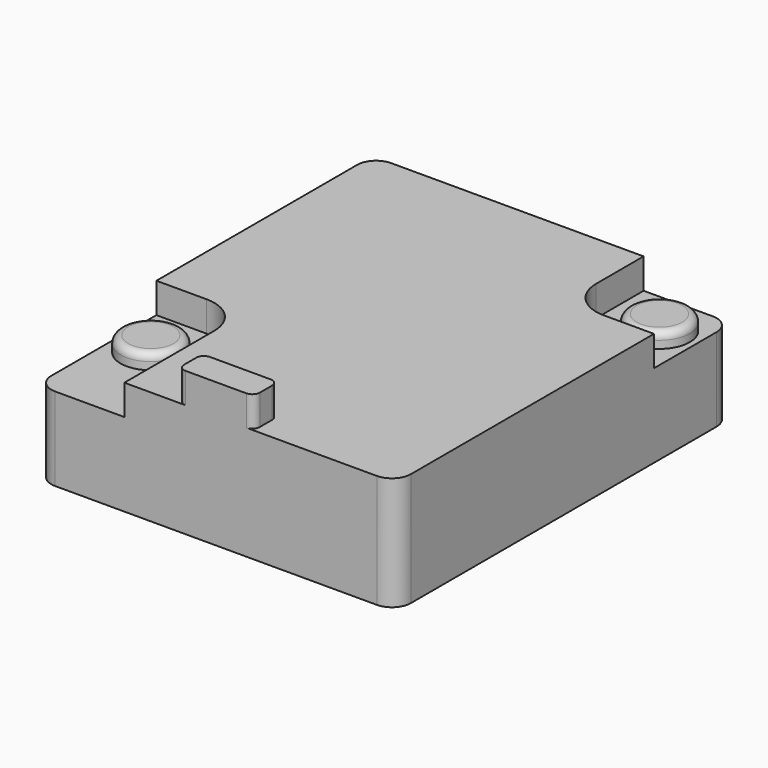
from build123d import *

# Parameters (mm, degrees)
SKETCH_W     = 9.5
SKETCH_H     = 11.1
PAD_DEPTH    = 3
POCKET_DEPTH = 0.8
SKETCH002_R  = 0.8
PAD001_DEPTH = 0.4
SKETCH003_R  = 0.8
PAD002_DEPTH = 0.4
FILLET_R     = 0.2
FILLET001_R  = 0.5
PAD003_DEPTH = 0.8


with BuildPart() as part:
    # Sketch → Pad (new body)
    with BuildSketch(Plane.XY):
        with Locations((0, -0.7)):
            Rectangle(SKETCH_W, SKETCH_H)
    extrude(amount=PAD_DEPTH)

    # Sketch001 (on Face6 of Pad) → Pocket (cut)
    with BuildSketch(Plane.XY.offset(3)):
        with BuildLine():
            Line((-3.42, -2.28), (-4.75, -2.28))
            Line((-4.75, -2.28), (-4.75, -6.25))
            Line((-4.75, -6.25), (-2.42, -6.25))
            Line((-2.42, -6.25), (-2.42, -3.28))
            ThreePointArc((-2.42, -3.28), (-2.712893, -2.572893), (-3.42, -2.28))
        make_face()
        with BuildLine():
            Line((4.75, 2.28), (4.75, 4.85))
            Line((4.75, 4.85), (2.42, 4.85))
            Line((2.42, 4.85), (2.42, 3.28))
            ThreePointArc((2.42, 3.28), (2.712893, 2.572893), (3.42, 2.28))
            Line((4.75, 2.28), (3.42, 2.28))
        make_face()
    extrude(amount=-POCKET_DEPTH, mode=Mode.SUBTRACT)

    # Sketch002 (on Face4 of Pocket) → Pad001 (join)
    with BuildSketch(Plane.XY.offset(2.2)):
        with Locations((-3.8, -3.65)):
            Circle(SKETCH002_R)
    extrude(amount=PAD001_DEPTH)

    # Sketch003 (on Face4 of Pad001) → Pad002 (join)
    with BuildSketch(Plane.XY.offset(2.2)):
        with Locations((3.8, 3.65)):
            Circle(SKETCH003_R)
    extrude(amount=PAD002_DEPTH)

    # Fillet
    fillet_edges = [part.edges().sort_by_distance(p)[0] for p in [
        (-4.6, -3.65, 2.6),
        (3, 3.65, 2.6),
    ]]
    fillet(fillet_edges, radius=FILLET_R)

    # Fillet001
    fillet001_edges = [part.edges().sort_by_distance(p)[0] for p in [
        (4.75, 4.85, 1.1),
        (-4.75, 4.85, 1.5),
        (-4.75, -6.25, 1.1),
        (4.75, -6.25, 1.5),
    ]]
    fillet(fillet001_edges, radius=FILLET001_R)

    # Sketch005 (on Face11 of Fillet001) → Pad003 (join)
    with BuildSketch(Plane.XY.offset(3)):
        with BuildLine():
            Line((-0.8, -5.45), (0.8, -5.45))
            ThreePointArc((1, -5.65), (0.941421, -5.508579), (0.8, -5.45))
            Line((1, -5.65), (1, -6.05))
            ThreePointArc((0.8, -6.25), (0.941421, -6.191421), (1, -6.05))
            Line((0.8, -6.25), (-0.8, -6.25))
            ThreePointArc((-1, -6.05), (-0.941421, -6.191421), (-0.8, -6.25))
            Line((-1, -6.05), (-1, -5.65))
            ThreePointArc((-0.8, -5.45), (-0.941421, -5.508579), (-1, -5.65))
        make_face()
    extrude(amount=PAD003_DEPTH)


solid = part.part
